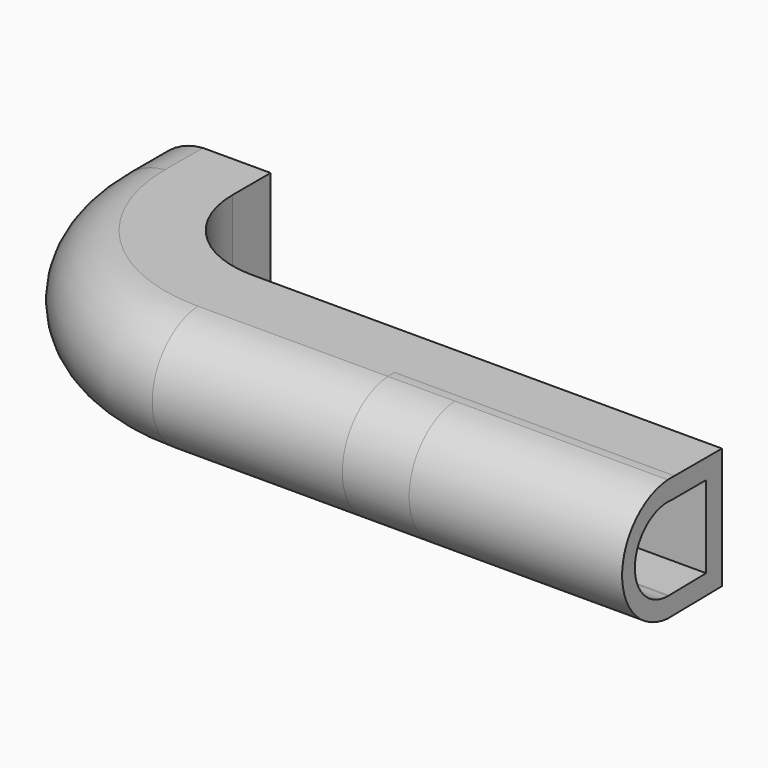
from build123d import *

# Parameters (mm, degrees)
F0_R     = 12.5
F0_R_2   = 9.5
F3_T     = -2.5
F5_START = 27.9
F5_DEPTH = 70.8


with BuildPart() as f2:
    # F2: sweep along a path in F1
    with BuildLine(Plane.XY) as f2_path:
        Line((-30.2034914494, 0), (-30.2034914494, -12))
        ThreePointArc((-30.2034914494, -12), (-27.2745592612, -19.0710678119), (-20.2034914494, -22))
        Line((-20.2034914494, -22), (44.7965085506, -22))
    # F0 (on Front) → F2 (sweep)
    with BuildSketch(Plane.XZ):
        with Locations((-61.9814805686, 30.9009179473)):
            Circle(F0_R)
        with Locations((-61.9814805686, 30.9009179473)):
            Circle(F0_R_2, mode=Mode.SUBTRACT)
        with Locations((-61.9814805686, 30.9009179473)):
            Circle(F0_R_2)
    sweep(path=f2_path.line)

    # F3
    f3_openings = [f2.faces().sort_by_distance(p)[0] for p in [
        (44.796509, -53.777989, 30.900918),
        (-61.981481, 0, 30.900918),
    ]]
    offset(amount=F3_T, openings=f3_openings)

    # F4 (on Right) → F5 (join)
    with BuildSketch(Plane.YZ.offset(F5_START)):
        with BuildLine():
            Line((-53.509484202, 46.3802992553), (-51.3534231177, 46.3802992553))
            ThreePointArc((-51.3534231177, 46.3802992553), (-52.4314536598, 46.4178383598), (-53.509484202, 46.3802992553))
        make_face()
        with BuildLine():
            Line((-36.3746711443, 46.3802992553), (-51.3534231177, 46.3802992553))
            Line((-51.3534231177, 46.3802992553), (-53.509484202, 46.3802992553))
            ThreePointArc((-53.509484202, 46.3802992553), (-67.929370479, 30.8835584681), (-53.4370074848, 15.4545756724))
            Line((-53.4370074848, 15.4545756724), (-36.3746711443, 15.7140511985))
            Line((-36.3746711443, 15.7140511985), (-36.3746711443, 46.3802992553))
        make_face()
        with BuildLine():
            ThreePointArc((-54.6600517166, 41.3802992553), (-53.4043908119, 41.4556498275), (-52.1487299073, 41.3802992553))
            Line((-52.1487299073, 41.3802992553), (-41.3746711443, 41.3802992553))
            Line((-41.3746711443, 41.3802992553), (-41.3746711443, 20.6385918219))
            Line((-41.3746711443, 20.6385918219), (-53.0851070952, 20.4605053354))
            ThreePointArc((-53.0851070952, 20.4605053354), (-53.2447304946, 20.4568637746), (-53.4043908119, 20.4556498275))
            ThreePointArc((-53.4043908119, 20.4556498275), (-63.8855362405, 30.3266899686), (-54.6600517166, 41.3802992553))
        make_face(mode=Mode.SUBTRACT)
    extrude(amount=F5_DEPTH)

    # F6: sweep along a path in F1
    with BuildLine(Plane.XY) as f6_path:
        Line((-30.2034914494, 0), (-30.2034914494, -12))
        ThreePointArc((-30.2034914494, -12), (-27.2745592612, -19.0710678119), (-20.2034914494, -22))
        Line((-20.2034914494, -22), (44.7965085506, -22))
    # F4 (on Right) → F6 (sweep)
    with BuildSketch(Plane.YZ):
        with BuildLine():
            Line((-36.3746711443, 46.3802992553), (-51.3534231177, 46.3802992553))
            Line((-51.3534231177, 46.3802992553), (-53.509484202, 46.3802992553))
            ThreePointArc((-53.509484202, 46.3802992553), (-67.929370479, 30.8835584681), (-53.4370074848, 15.4545756724))
            Line((-53.4370074848, 15.4545756724), (-36.3746711443, 15.7140511985))
            Line((-36.3746711443, 15.7140511985), (-36.3746711443, 46.3802992553))
        make_face()
        with BuildLine():
            ThreePointArc((-54.6600517166, 41.3802992553), (-53.4043908119, 41.4556498275), (-52.1487299073, 41.3802992553))
            Line((-52.1487299073, 41.3802992553), (-41.3746711443, 41.3802992553))
            Line((-41.3746711443, 41.3802992553), (-41.3746711443, 20.6385918219))
            Line((-41.3746711443, 20.6385918219), (-53.0851070952, 20.4605053354))
            ThreePointArc((-53.0851070952, 20.4605053354), (-53.2447304946, 20.4568637746), (-53.4043908119, 20.4556498275))
            ThreePointArc((-53.4043908119, 20.4556498275), (-63.8855362405, 30.3266899686), (-54.6600517166, 41.3802992553))
        make_face(mode=Mode.SUBTRACT)
    sweep(path=f6_path.line)


solid = f2.part
